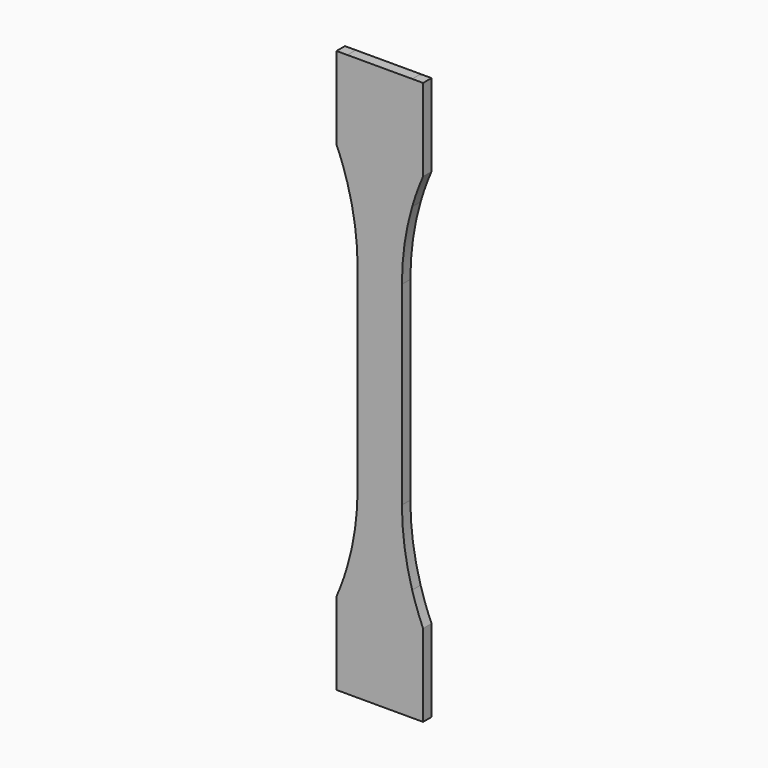
from build123d import *

# Parameters (mm, degrees)
F0_W     = 6.5
F0_H     = 28.5
F0_W_2   = 9.5
F0_H_2   = 32.9946
F0_H_3   = 0.0054
F1_DEPTH = 3.1
F2_DEPTH = 3.1


with BuildPart() as f1:
    # F0 (on Front) → F1 (new body)
    with BuildSketch(Plane.XZ):
        with BuildLine():
            ThreePointArc((-9.5, 49.5), (-7.2537879754, 39.1066017178), (-6.5, 28.5))
            Line((-6.5, 28.5), (0, 28.5))
            Line((0, 28.5), (0, 49.5))
            Line((0, 49.5), (-9.5, 49.5))
        make_face()
        with Locations((-3.25, 14.25)):
            Rectangle(F0_W, F0_H)
        with Locations((3.25, 14.25)):
            Rectangle(F0_W, F0_H)
        with BuildLine():
            Line((0, 49.5), (0, 28.5))
            Line((0, 28.5), (6.5, 28.5))
            ThreePointArc((6.5, 28.5), (7.2537879754, 39.1066017178), (9.5, 49.5))
            Line((9.5, 49.5), (0, 49.5))
        make_face()
        with Locations((-3.25, -14.25)):
            Rectangle(F0_W, F0_H)
        with Locations((-4.75, 65.9973)):
            Rectangle(F0_W_2, F0_H_2)
        with BuildLine():
            ThreePointArc((-12.7, 58.3590019927), (-10.9607876492, 53.9797865164), (-9.5, 49.5))
            Line((-9.5, 49.5), (-9.5, 82.4946))
            Line((-9.5, 82.4946), (-12.7, 82.4946))
            Line((-12.7, 82.4946), (-12.7, 58.3590019927))
        make_face()
        with Locations((3.25, -14.25)):
            Rectangle(F0_W, F0_H)
        with Locations((4.75, 65.9973)):
            Rectangle(F0_W_2, F0_H_2)
        with BuildLine():
            Line((0, -28.5), (-6.5, -28.5))
            ThreePointArc((-6.5, -28.5), (-7.2537879754, -39.1066017178), (-9.5, -49.5))
            Line((-9.5, -49.5), (0, -49.5))
            Line((0, -49.5), (0, -28.5))
        make_face()
        with Locations((-4.75, 82.4973)):
            Rectangle(F0_W_2, F0_H_3)
        with BuildLine():
            Line((6.5, -28.5), (0, -28.5))
            Line((0, -28.5), (0, -49.5))
            Line((0, -49.5), (9.5, -49.5))
            ThreePointArc((9.5, -49.5), (7.2537879754, -39.1066017178), (6.5, -28.5))
        make_face()
        with Locations((4.75, 82.4973)):
            Rectangle(F0_W_2, F0_H_3)
        with BuildLine():
            Line((9.5, 82.4946), (9.5, 49.5))
            ThreePointArc((9.5, 49.5), (10.9607876492, 53.9797865164), (12.7, 58.3590019927))
            Line((12.7, 58.3590019927), (12.7, 82.4946))
            Line((12.7, 82.4946), (9.5, 82.4946))
        make_face()
        Polygon((0, -49.5), (-9.5, -49.5), (-9.5, -82.4946), (0, -82.4946), (0, -55.7), align=None)
        with BuildLine():
            Line((-9.5, -82.4946), (-9.5, -49.5))
            ThreePointArc((-9.5, -49.5), (-10.9607876492, -53.9797865164), (-12.7, -58.3590019927))
            Line((-12.7, -58.3590019927), (-12.7, -82.4946))
            Line((-12.7, -82.4946), (-9.5, -82.4946))
        make_face()
        Polygon((9.5, -49.5), (0, -49.5), (0, -55.7), (0, -82.4946), (9.5, -82.4946), align=None)
        with Locations((-4.75, -82.4973)):
            Rectangle(F0_W_2, F0_H_3)
        with BuildLine():
            ThreePointArc((12.7, -58.3590019927), (10.9607876492, -53.9797865164), (9.5, -49.5))
            Line((9.5, -49.5), (9.5, -82.4946))
            Line((9.5, -82.4946), (12.7, -82.4946))
            Line((12.7, -82.4946), (12.7, -58.3590019927))
        make_face()
        with Locations((4.75, -82.4973)):
            Rectangle(F0_W_2, F0_H_3)
    extrude(amount=F1_DEPTH)


with BuildPart() as f2:
    # F0 (on Front) → F2 (new body)
    with BuildSketch(Plane.XZ):
        with BuildLine():
            ThreePointArc((-9.5, 49.5), (-7.2537879754, 39.1066017178), (-6.5, 28.5))
            Line((-6.5, 28.5), (0, 28.5))
            Line((0, 28.5), (0, 49.5))
            Line((0, 49.5), (-9.5, 49.5))
        make_face()
        with Locations((-3.25, 14.25)):
            Rectangle(F0_W, F0_H)
        with Locations((3.25, 14.25)):
            Rectangle(F0_W, F0_H)
        with BuildLine():
            Line((0, 49.5), (0, 28.5))
            Line((0, 28.5), (6.5, 28.5))
            ThreePointArc((6.5, 28.5), (7.2537879754, 39.1066017178), (9.5, 49.5))
            Line((9.5, 49.5), (0, 49.5))
        make_face()
        with Locations((-3.25, -14.25)):
            Rectangle(F0_W, F0_H)
        with Locations((-4.75, 65.9973)):
            Rectangle(F0_W_2, F0_H_2)
        with BuildLine():
            ThreePointArc((-12.7, 58.3590019927), (-10.9607876492, 53.9797865164), (-9.5, 49.5))
            Line((-9.5, 49.5), (-9.5, 82.4946))
            Line((-9.5, 82.4946), (-12.7, 82.4946))
            Line((-12.7, 82.4946), (-12.7, 58.3590019927))
        make_face()
        with Locations((3.25, -14.25)):
            Rectangle(F0_W, F0_H)
        with Locations((4.75, 65.9973)):
            Rectangle(F0_W_2, F0_H_2)
        with BuildLine():
            Line((0, -28.5), (-6.5, -28.5))
            ThreePointArc((-6.5, -28.5), (-7.2537879754, -39.1066017178), (-9.5, -49.5))
            Line((-9.5, -49.5), (0, -49.5))
            Line((0, -49.5), (0, -28.5))
        make_face()
        with Locations((-4.75, 82.4973)):
            Rectangle(F0_W_2, F0_H_3)
        with BuildLine():
            Line((6.5, -28.5), (0, -28.5))
            Line((0, -28.5), (0, -49.5))
            Line((0, -49.5), (9.5, -49.5))
            ThreePointArc((9.5, -49.5), (7.2537879754, -39.1066017178), (6.5, -28.5))
        make_face()
        with Locations((4.75, 82.4973)):
            Rectangle(F0_W_2, F0_H_3)
        with BuildLine():
            Line((9.5, 82.4946), (9.5, 49.5))
            ThreePointArc((9.5, 49.5), (10.9607876492, 53.9797865164), (12.7, 58.3590019927))
            Line((12.7, 58.3590019927), (12.7, 82.4946))
            Line((12.7, 82.4946), (9.5, 82.4946))
        make_face()
        Polygon((0, -49.5), (-9.5, -49.5), (-9.5, -82.4946), (0, -82.4946), (0, -55.7), align=None)
        with BuildLine():
            Line((-9.5, -82.4946), (-9.5, -49.5))
            ThreePointArc((-9.5, -49.5), (-10.9607876492, -53.9797865164), (-12.7, -58.3590019927))
            Line((-12.7, -58.3590019927), (-12.7, -82.4946))
            Line((-12.7, -82.4946), (-9.5, -82.4946))
        make_face()
        Polygon((9.5, -49.5), (0, -49.5), (0, -55.7), (0, -82.4946), (9.5, -82.4946), align=None)
        with Locations((-4.75, -82.4973)):
            Rectangle(F0_W_2, F0_H_3)
        with BuildLine():
            ThreePointArc((12.7, -58.3590019927), (10.9607876492, -53.9797865164), (9.5, -49.5))
            Line((9.5, -49.5), (9.5, -82.4946))
            Line((9.5, -82.4946), (12.7, -82.4946))
            Line((12.7, -82.4946), (12.7, -58.3590019927))
        make_face()
        with Locations((4.75, -82.4973)):
            Rectangle(F0_W_2, F0_H_3)
    extrude(amount=F2_DEPTH)


solid = Compound([f1.part, f2.part])
